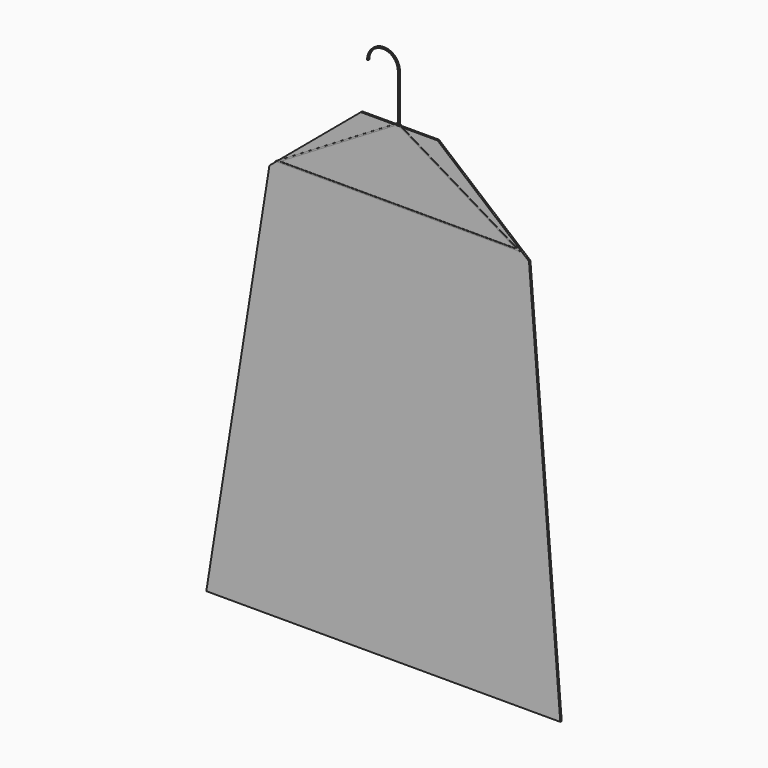
from build123d import *

# Parameters (mm, degrees)
F1_DEPTH = 2
F3_DEPTH = 1.5


with BuildPart() as f1:
    # F0 (on Front) → F1 (new body)
    with BuildSketch(Plane.XZ):
        with BuildLine():
            Line((-27, 0), (-25, 0))
            ThreePointArc((-25, 0), (0, 25), (25, 0))
            Line((25, 0), (25, -77.667619))
            Line((25, -77.667619), (27, -78.867619))
            Line((27, -78.867619), (27, 0))
            ThreePointArc((27, 0), (0, 27), (-27, 0))
        make_face()
        Polygon((27, -78.867619), (25, -77.667619), (-182.220635, -202), (232.220635, -202), align=None)
        Polygon((-175, -200), (25, -80), (225, -200), align=None, mode=Mode.SUBTRACT)
    extrude(amount=F1_DEPTH)

    # F2 (on Front) → F3 (join, symmetric)
    with BuildSketch(Plane.XZ):
        Polygon((92, -82), (-38, -82), (-193, -212), (-300, -882), (300, -882), (247, -212), align=None)
    extrude(amount=F3_DEPTH, both=True)


solid = f1.part
